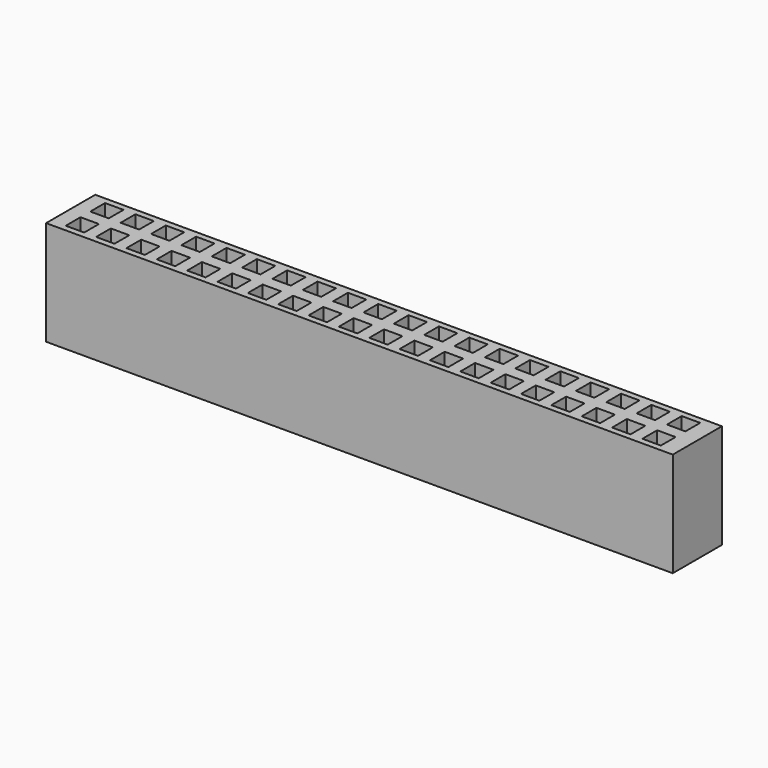
from build123d import *

# Parameters (mm, degrees)
F0_W     = 51
F0_H     = 5
F0_W_2   = 1.5
F0_H_2   = 1.5
F1_DEPTH = 8.5


with BuildPart() as f1:
    # F0 (on Top) → F1 (new body)
    with BuildSketch(Plane.XY):
        with Locations((25.5, 2.5)):
            Rectangle(F0_W, F0_H)
        with Locations((1.95, 1.25)):
            Rectangle(F0_W_2, F0_H_2, mode=Mode.SUBTRACT)
        with Locations((4.42, 1.25)):
            Rectangle(F0_W_2, F0_H_2, mode=Mode.SUBTRACT)
        with Locations((6.89, 1.25)):
            Rectangle(F0_W_2, F0_H_2, mode=Mode.SUBTRACT)
        with Locations((9.36, 1.25)):
            Rectangle(F0_W_2, F0_H_2, mode=Mode.SUBTRACT)
        with Locations((11.83, 1.25)):
            Rectangle(F0_W_2, F0_H_2, mode=Mode.SUBTRACT)
        with Locations((14.3, 1.25)):
            Rectangle(F0_W_2, F0_H_2, mode=Mode.SUBTRACT)
        with Locations((16.77, 1.25)):
            Rectangle(F0_W_2, F0_H_2, mode=Mode.SUBTRACT)
        with Locations((19.24, 1.25)):
            Rectangle(F0_W_2, F0_H_2, mode=Mode.SUBTRACT)
        with Locations((21.71, 1.25)):
            Rectangle(F0_W_2, F0_H_2, mode=Mode.SUBTRACT)
        with Locations((24.18, 1.25)):
            Rectangle(F0_W_2, F0_H_2, mode=Mode.SUBTRACT)
        with Locations((26.65, 1.25)):
            Rectangle(F0_W_2, F0_H_2, mode=Mode.SUBTRACT)
        with Locations((29.12, 1.25)):
            Rectangle(F0_W_2, F0_H_2, mode=Mode.SUBTRACT)
        with Locations((31.59, 1.25)):
            Rectangle(F0_W_2, F0_H_2, mode=Mode.SUBTRACT)
        with Locations((34.06, 1.25)):
            Rectangle(F0_W_2, F0_H_2, mode=Mode.SUBTRACT)
        with Locations((36.53, 1.25)):
            Rectangle(F0_W_2, F0_H_2, mode=Mode.SUBTRACT)
        with Locations((39, 1.25)):
            Rectangle(F0_W_2, F0_H_2, mode=Mode.SUBTRACT)
        with Locations((41.47, 1.25)):
            Rectangle(F0_W_2, F0_H_2, mode=Mode.SUBTRACT)
        with Locations((43.94, 1.25)):
            Rectangle(F0_W_2, F0_H_2, mode=Mode.SUBTRACT)
        with Locations((46.41, 1.25)):
            Rectangle(F0_W_2, F0_H_2, mode=Mode.SUBTRACT)
        with Locations((48.88, 1.25)):
            Rectangle(F0_W_2, F0_H_2, mode=Mode.SUBTRACT)
        with Locations((1.95, 3.75)):
            Rectangle(F0_W_2, F0_H_2, mode=Mode.SUBTRACT)
        with Locations((4.42, 3.75)):
            Rectangle(F0_W_2, F0_H_2, mode=Mode.SUBTRACT)
        with Locations((6.89, 3.75)):
            Rectangle(F0_W_2, F0_H_2, mode=Mode.SUBTRACT)
        with Locations((9.36, 3.75)):
            Rectangle(F0_W_2, F0_H_2, mode=Mode.SUBTRACT)
        with Locations((11.83, 3.75)):
            Rectangle(F0_W_2, F0_H_2, mode=Mode.SUBTRACT)
        with Locations((14.3, 3.75)):
            Rectangle(F0_W_2, F0_H_2, mode=Mode.SUBTRACT)
        with Locations((16.77, 3.75)):
            Rectangle(F0_W_2, F0_H_2, mode=Mode.SUBTRACT)
        with Locations((19.24, 3.75)):
            Rectangle(F0_W_2, F0_H_2, mode=Mode.SUBTRACT)
        with Locations((21.71, 3.75)):
            Rectangle(F0_W_2, F0_H_2, mode=Mode.SUBTRACT)
        with Locations((24.18, 3.75)):
            Rectangle(F0_W_2, F0_H_2, mode=Mode.SUBTRACT)
        with Locations((26.65, 3.75)):
            Rectangle(F0_W_2, F0_H_2, mode=Mode.SUBTRACT)
        with Locations((29.12, 3.75)):
            Rectangle(F0_W_2, F0_H_2, mode=Mode.SUBTRACT)
        with Locations((31.59, 3.75)):
            Rectangle(F0_W_2, F0_H_2, mode=Mode.SUBTRACT)
        with Locations((34.06, 3.75)):
            Rectangle(F0_W_2, F0_H_2, mode=Mode.SUBTRACT)
        with Locations((36.53, 3.75)):
            Rectangle(F0_W_2, F0_H_2, mode=Mode.SUBTRACT)
        with Locations((39, 3.75)):
            Rectangle(F0_W_2, F0_H_2, mode=Mode.SUBTRACT)
        with Locations((41.47, 3.75)):
            Rectangle(F0_W_2, F0_H_2, mode=Mode.SUBTRACT)
        with Locations((43.94, 3.75)):
            Rectangle(F0_W_2, F0_H_2, mode=Mode.SUBTRACT)
        with Locations((46.41, 3.75)):
            Rectangle(F0_W_2, F0_H_2, mode=Mode.SUBTRACT)
        with Locations((48.88, 3.75)):
            Rectangle(F0_W_2, F0_H_2, mode=Mode.SUBTRACT)
    extrude(amount=F1_DEPTH)


solid = f1.part
